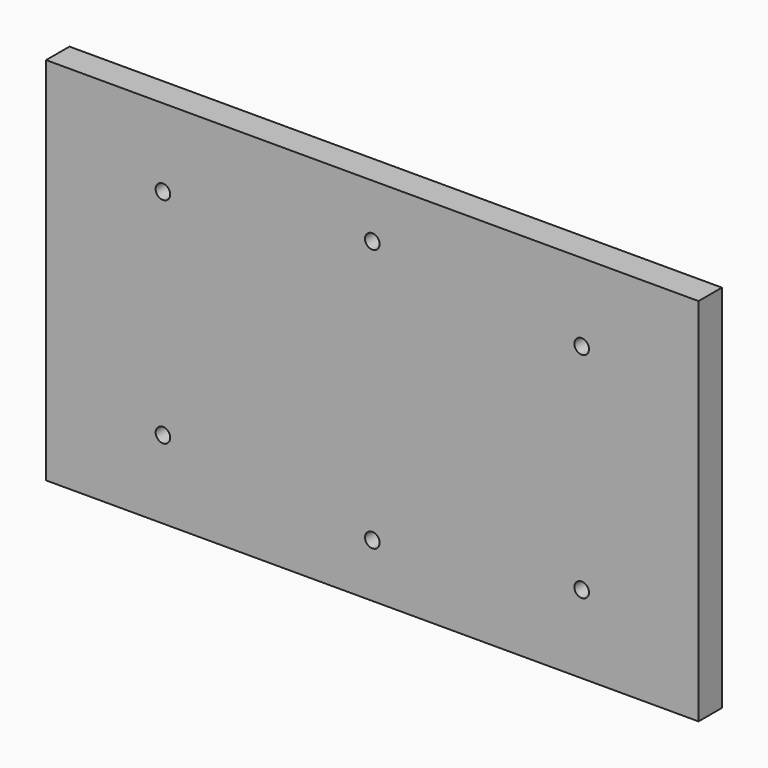
from build123d import *

# Parameters (mm, degrees)
F0_W     = 425.45
F0_H     = 241.3
F1_DEPTH = 19.05
F2_D     = 9.525
F3_D     = 9.525
F4_D     = 9.525
F5_D     = 9.525
F6_D     = 9.525
F7_D     = 9.525


with BuildPart() as f1:
    # F0 (on Front) → F1 (new body)
    with BuildSketch(Plane.XZ):
        Rectangle(F0_W, F0_H)
    extrude(amount=F1_DEPTH)

    # F2 (through all)
    with Locations(Plane(origin=(0, 0, 0), x_dir=(1, 0, 0), z_dir=(0, 1, 0))):
        with Locations((136.525, 69.85)):
            Hole(F2_D / 2)

    # F3 (through all)
    with Locations(Plane(origin=(0, 0, 0), x_dir=(1, 0, 0), z_dir=(0, 1, 0))):
        with Locations((136.525, -69.85)):
            Hole(F3_D / 2)

    # F4 (through all)
    with Locations(Plane(origin=(0, 0, 0), x_dir=(1, 0, 0), z_dir=(0, 1, 0))):
        with Locations((-136.525, 69.85)):
            Hole(F4_D / 2)

    # F5 (through all)
    with Locations(Plane(origin=(0, 0, 0), x_dir=(1, 0, 0), z_dir=(0, 1, 0))):
        with Locations((-136.525, -69.85)):
            Hole(F5_D / 2)

    # F6 (through all)
    with Locations(Plane(origin=(0, 0, 0), x_dir=(1, 0, 0), z_dir=(0, 1, 0))):
        with Locations((0, 85.725)):
            Hole(F6_D / 2)

    # F7 (through all)
    with Locations(Plane(origin=(0, 0, 0), x_dir=(1, 0, 0), z_dir=(0, 1, 0))):
        with Locations((0, -85.725)):
            Hole(F7_D / 2)


solid = f1.part
